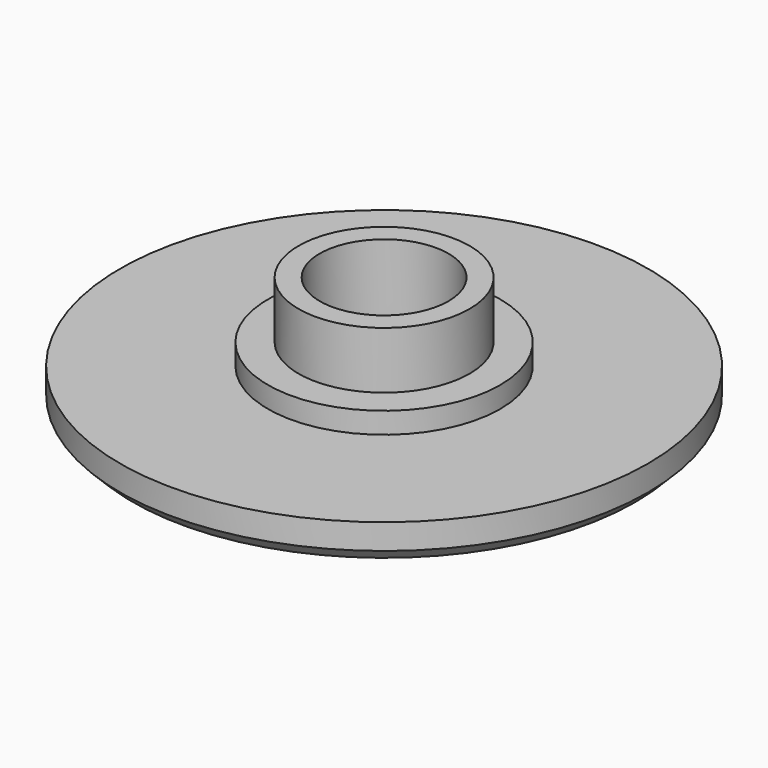
from build123d import *

# Parameters (mm, degrees)
F0_R     = 12.5
F0_R_2   = 5.5
F0_R_3   = 4.05
F1_DEPTH = 1.8
F2_DEPTH = 2.8
F3_DEPTH = 5.5
F4_R     = 3.05
F5_DEPTH = 3.7
F6_SIZE  = 0.6


with BuildPart() as f1:
    # F0 (on Top) → F1 (new body)
    with BuildSketch(Plane.XY):
        Circle(F0_R)
        Circle(F0_R_2, mode=Mode.SUBTRACT)
        Circle(F0_R_2)
        Circle(F0_R_3, mode=Mode.SUBTRACT)
        Circle(F0_R_3)
    extrude(amount=F1_DEPTH)

    # F0 (on Top) → F2 (join)
    with BuildSketch(Plane.XY):
        Circle(F0_R_2)
        Circle(F0_R_3, mode=Mode.SUBTRACT)
    extrude(amount=F2_DEPTH)

    # F0 (on Top) → F3 (join)
    with BuildSketch(Plane.XY):
        Circle(F0_R_3)
    extrude(amount=F3_DEPTH)

    # F4 (on face) → F5 (cut, through all)
    with BuildSketch(Plane.XY.offset(5.5)):
        Circle(F4_R)
    extrude(amount=-F5_DEPTH, mode=Mode.SUBTRACT)

    # F6
    f6_edges = [f1.edges().sort_by_distance(p)[0] for p in [
        (-12.5, 0, 0),
    ]]
    chamfer(f6_edges, length=F6_SIZE)


solid = f1.part
